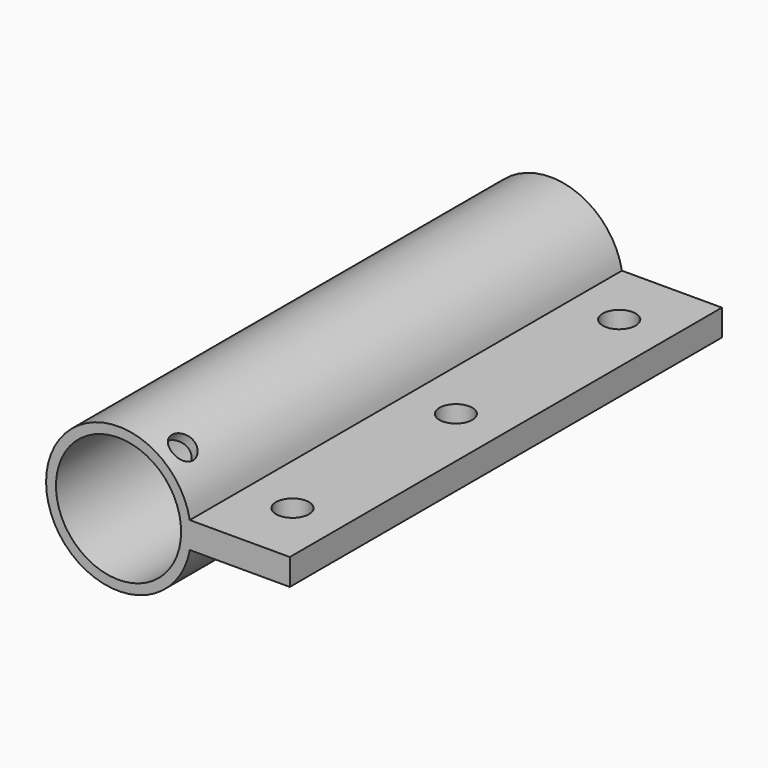
from build123d import *

# Parameters (mm, degrees)
F0_R     = 9.5
F1_DEPTH = 82
F2_R     = 2.5
F3_DEPTH = 25
F6_R     = 2
F7_DEPTH = 5


with BuildPart() as f1:
    # F0 (on Front) → F1 (new body)
    with BuildSketch(Plane.XZ):
        with BuildLine():
            ThreePointArc((10.8166538264, -2), (10.9540675571, -1.004193186), (11, 0))
            ThreePointArc((11, 0), (10.9540675571, 1.004193186), (10.8166538264, 2))
            ThreePointArc((10.8166538264, 2), (-11, 0), (10.8166538264, -2))
        make_face()
        Circle(F0_R, mode=Mode.SUBTRACT)
        with BuildLine():
            ThreePointArc((10.8166538264, 2), (10.9540675571, 1.004193186), (11, 0))
            ThreePointArc((11, 0), (10.9540675571, -1.004193186), (10.8166538264, -2))
            Line((10.8166538264, -2), (26, -2))
            Line((26, -2), (26, 2))
            Line((26, 2), (10.8166538264, 2))
        make_face()
    extrude(amount=-F1_DEPTH)

    # F2 (on face) → F3 (cut)
    with BuildSketch(Plane.XY.offset(2)):
        with Locations((18.4083269132, 72)):
            Circle(F2_R)
        with Locations((18.4083269132, 41)):
            Circle(F2_R)
        with Locations((18.4083269132, 10)):
            Circle(F2_R)
    extrude(amount=-F3_DEPTH, mode=Mode.SUBTRACT)

    # F6 (on face) → F7 (cut)
    with BuildSketch(Plane(origin=(6.6010824652, 0, 8.799188047), x_dir=(0.7999261861, 0, -0.6000984059), z_dir=(0.6000984059, 0, 0.7999261861))):
        with Locations((0, 4)):
            Circle(F6_R)
    extrude(amount=-F7_DEPTH, mode=Mode.SUBTRACT)


solid = f1.part
